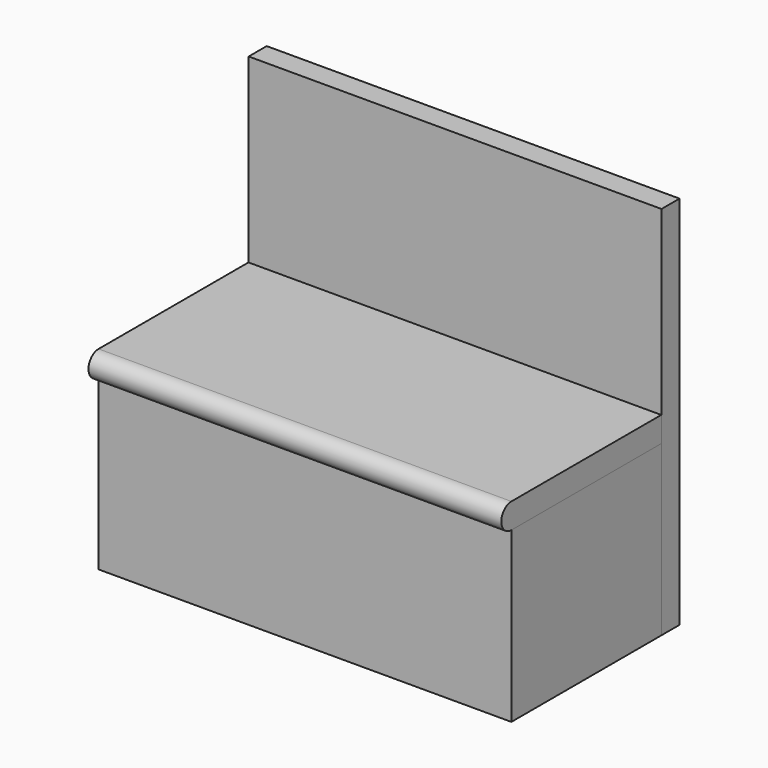
from build123d import *

# Parameters (mm, degrees)
F0_W     = 500
F0_H     = 450
F1_DEPTH = 1100
F3_DEPTH = 1100
F4_W     = 60
F4_H     = 1000
F5_DEPTH = 1100


with BuildPart() as f1:
    # F0 (on Right) → F1 (new body)
    with BuildSketch(Plane.YZ):
        with Locations((14.699318, -2.926279)):
            Rectangle(F0_W, F0_H)
    extrude(amount=F1_DEPTH)


with BuildPart() as f3:
    # F2 (on face) → F3 (new body)
    with BuildSketch(Plane.YZ.offset(1100)):
        with BuildLine():
            Line((263.895035, 289.310813), (-235.300682, 289.310813))
            ThreePointArc((-235.300682, 289.310813), (-268.919228, 255.692267), (-235.300682, 222.073721))
            Line((-235.300682, 222.073721), (264.699318, 222.073721))
            Line((264.699318, 222.073721), (263.895035, 289.310813))
        make_face()
    extrude(amount=-F3_DEPTH)


with BuildPart() as f5:
    # F4 (on face) → F5 (new body)
    with BuildSketch(Plane.YZ.offset(1100)):
        with Locations((294.699318, 272.073721)):
            Rectangle(F4_W, F4_H)
        Polygon((264.699318, 222.073721), (264.699318, -227.926279), (324.699318, -227.926279), (324.699318, 772.073721), (264.699318, 772.073721), align=None)
    extrude(amount=-F5_DEPTH)


solid = Compound([f1.part, f3.part, f5.part])
